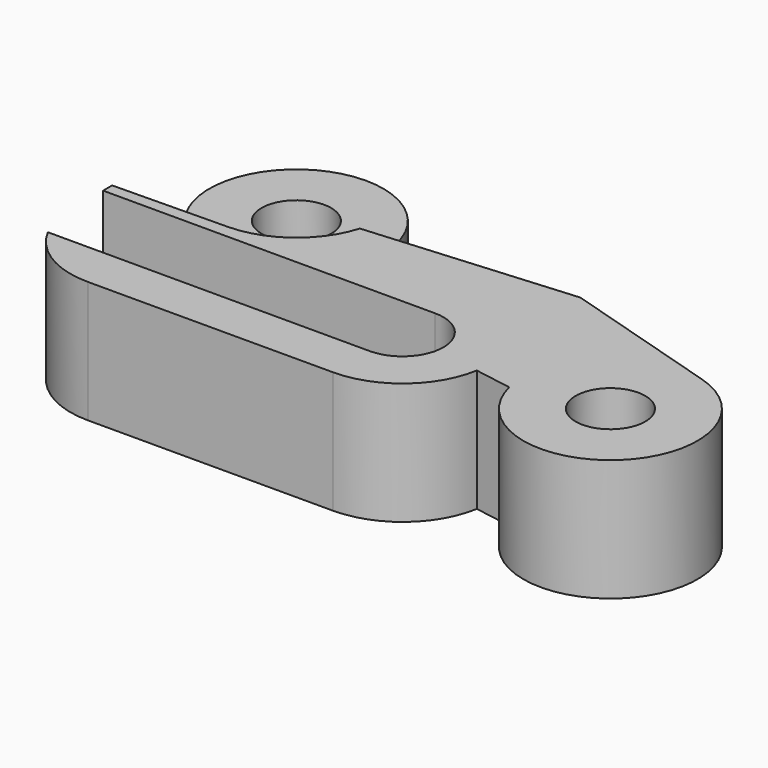
from build123d import *

# Parameters (mm, degrees)
F0_R     = 2
F1_DEPTH = 7
F3_DEPTH = 5.2
F4_R     = 2
F5_DEPTH = 1.75
F7_DEPTH = 1.75


with BuildPart() as f1:
    # F0 (on Top) → F1 (new body)
    with BuildSketch(Plane.XY):
        with BuildLine():
            Line((4.9350217689, -0.0139416518), (19.004955283, 2.4555e-06))
            ThreePointArc((19.004955283, 2.4555e-06), (22.2293780558, 1.1827867006), (23.9300664859, 4.1666666667))
            Line((23.9300664859, 4.1666666667), (26.0782552237, 3.8035564963))
            ThreePointArc((26.0782552237, 3.8035564963), (34.3758111212, 1.3887256489), (32.3801124961, 9.7969376403))
            Line((32.3801124961, 9.7969376403), (23.1300664859, 12.6000024555))
            Line((23.1300664859, 12.6000024555), (11.221314861, 11.6563943987))
            ThreePointArc((11.221314861, 11.6563943987), (5.4972893091, 17.9982805275), (2.4963756955, 9.9996240357))
            Line((2.4963756955, 9.9996240357), (-0.0699335141, 7.9860583482))
            Line((-0.0699335141, 7.9860583482), (-0.0699335141, 4.9860558927))
            ThreePointArc((-0.0699335141, 4.9860558927), (1.3962849714, 1.4487704636), (4.9350217689, -0.0139416518))
        make_face()
        with Locations((30.9300664859, 5.0118209214)):
            Circle(F0_R, mode=Mode.SUBTRACT)
        with Locations((6.4300664859, 13.0860583482)):
            Circle(F0_R, mode=Mode.SUBTRACT)
    extrude(amount=F1_DEPTH)

    # F2 (on face) → F3 (cut)
    with BuildSketch(Plane.XY.offset(7)):
        with BuildLine():
            Line((19.004955283, 7.3360559031), (-0.0699335141, 7.3360559031))
            Line((-0.0699335141, 7.3360559031), (-0.0699335141, 4.9860558927))
            ThreePointArc((-0.0699335141, 4.9860558927), (0.0789501004, 3.7749944518), (0.5167344114, 2.6360558927))
            Line((0.5167344114, 2.6360558927), (19.0047344114, 2.6360558927))
            ThreePointArc((19.0047344114, 2.6360558927), (21.3549552908, 4.985945457), (19.004955283, 7.3360559031))
        make_face()
    extrude(amount=-F3_DEPTH, mode=Mode.SUBTRACT)

    # F4 (on face) → F5 (cut)
    with BuildSketch(Plane.XY):
        with BuildLine():
            Line((-0.064623992, 7.9902242809), (6.5034230268, 8.0865964954))
            ThreePointArc((6.5034230268, 8.0865964954), (9.4470118806, 9.0988236567), (11.221314861, 11.6563943987))
            ThreePointArc((11.221314861, 11.6563943987), (5.4991508888, 17.9986336557), (2.494037584, 10.0026063081))
            ThreePointArc((2.494037584, 10.0026063081), (2.4952063572, 10.0011149504), (2.4963756955, 9.9996240357))
            Line((2.4963756955, 9.9996240357), (-0.064623992, 7.9902242809))
        make_face()
        with Locations((6.4300664859, 13.0860583482)):
            Circle(F4_R, mode=Mode.SUBTRACT)
    extrude(amount=F5_DEPTH, mode=Mode.SUBTRACT)

    # F6 (on face) → F7 (cut)
    with BuildSketch(Plane.XY.offset(7)):
        with BuildLine():
            Line((-0.0699335141, 7.9860583482), (6.5065307879, 8.0866430614))
            ThreePointArc((6.5065307879, 8.0866430614), (8.5828375136, 17.5988819546), (2.4963756955, 9.9996240357))
            Line((2.4963756955, 9.9996240357), (-0.0699335141, 7.9860583482))
        make_face()
    extrude(amount=-F7_DEPTH, mode=Mode.SUBTRACT)


solid = f1.part
